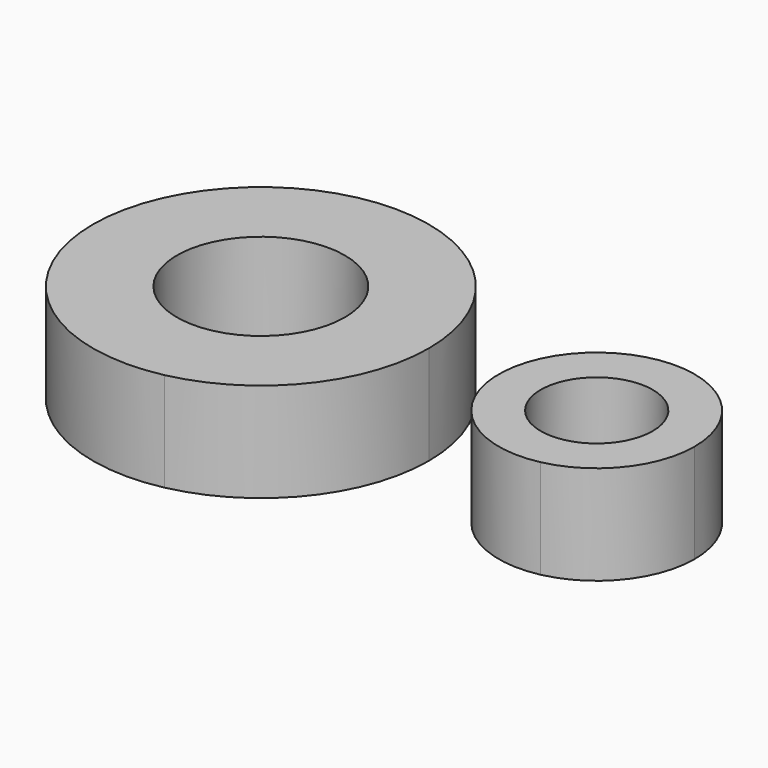
from build123d import *

# Parameters (mm, degrees)
F0_R     = 38.1
F0_R_2   = 25.4
F1_DEPTH = 44.958


with BuildPart() as f1:
    # F0 (on Top) → F1 (new body)
    with BuildSketch(Plane.XY):
        with BuildLine():
            ThreePointArc((15.875, -74.528011), (59.228857, -47.941449), (76.2, 0))
            ThreePointArc((76.2, 0), (59.228857, 47.941449), (15.875, 74.528011))
            ThreePointArc((15.875, 74.528011), (-76.2, 0), (15.875, -74.528011))
        make_face()
        Circle(F0_R, mode=Mode.SUBTRACT)
        with BuildLine():
            ThreePointArc((196.85, 0), (117.849833, 27.965845), (161.660417, -43.474673))
            ThreePointArc((161.660417, -43.474673), (186.950167, -27.965845), (196.85, 0))
        make_face()
        with Locations((152.4, 0)):
            Circle(F0_R_2, mode=Mode.SUBTRACT)
    extrude(amount=F1_DEPTH)


solid = f1.part
